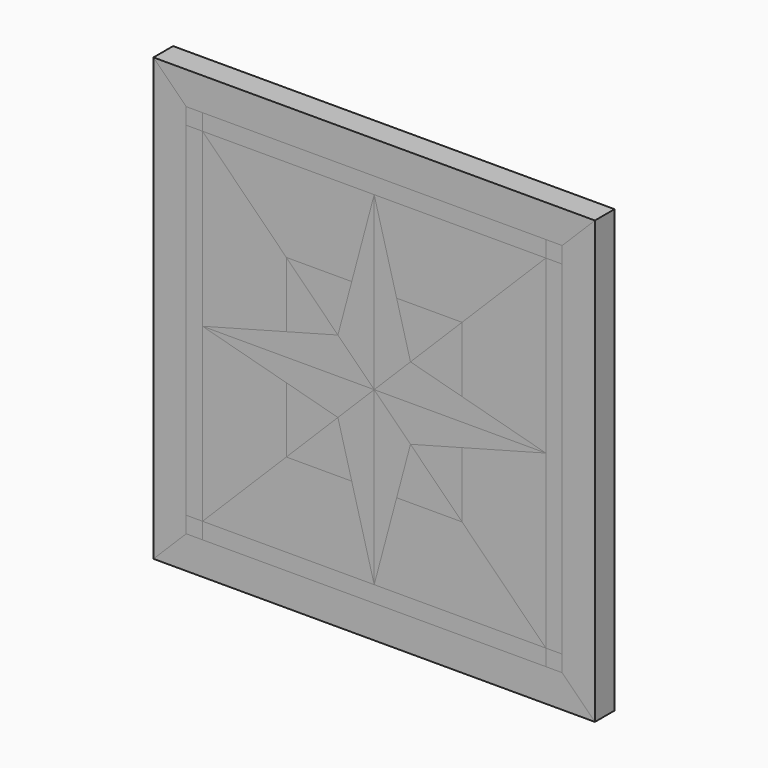
from build123d import *

# Parameters (mm, degrees)
F1_DEPTH  = 19.05
F2_DEPTH  = 19.05
F3_DEPTH  = 19.05
F4_DEPTH  = 19.05
F5_DEPTH  = 19.05
F6_DEPTH  = 19.05
F0_W      = 12.7
F0_H      = 12.7
F7_DEPTH  = 19.05
F8_DEPTH  = 19.05
F10_DEPTH = 19.05
F11_DEPTH = 19.05
F12_DEPTH = 19.05
F13_DEPTH = 19.05


with BuildPart() as f1:
    # F0 (on Front) → F1 (new body)
    with BuildSketch(Plane.XZ):
        Polygon((146.05, 146.05), (146.05, 133.35), (146.05, -133.35), (146.05, -146.05), (171.45, -171.45), (171.45, 171.45), align=None)
    extrude(amount=F1_DEPTH)


with BuildPart() as f1b:
    # F0 (on Front) → F1, piece 2 (new body)
    with BuildSketch(Plane.XZ):
        Polygon((-146.05, -133.35), (-146.05, 133.35), (-146.05, 146.05), (-171.45, 171.45), (-171.45, -171.45), (-146.05, -146.05), align=None)
    extrude(amount=F1_DEPTH)


with BuildPart() as f2:
    # F0 (on Front) → F2 (new body)
    with BuildSketch(Plane.XZ):
        Polygon((-146.05, 146.05), (-133.35, 146.05), (133.35, 146.05), (146.05, 146.05), (171.45, 171.45), (-171.45, 171.45), align=None)
    extrude(amount=F2_DEPTH)


with BuildPart() as f2b:
    # F0 (on Front) → F2, piece 2 (new body)
    with BuildSketch(Plane.XZ):
        Polygon((133.35, -146.05), (-133.35, -146.05), (-146.05, -146.05), (-171.45, -171.45), (171.45, -171.45), (146.05, -146.05), align=None)
    extrude(amount=F2_DEPTH)


with BuildPart() as f3:
    # F0 (on Front) → F3 (new body)
    with BuildSketch(Plane.XZ):
        Polygon((0, 0), (0, 133.35), (-17.4448676392, 68.2448676392), (-28.1801708018, 28.1801708018), align=None)
    extrude(amount=F3_DEPTH)


with BuildPart() as f3b:
    # F0 (on Front) → F3, piece 2 (new body)
    with BuildSketch(Plane.XZ):
        Polygon((28.1801708018, 28.1801708018), (0, 0), (133.35, 0), (68.2448676392, 17.4448676392), align=None)
    extrude(amount=F3_DEPTH)


with BuildPart() as f3c:
    # F0 (on Front) → F3, piece 3 (new body)
    with BuildSketch(Plane.XZ):
        Polygon((28.1801708018, -28.1801708018), (0, 0), (0, -133.35), (17.4448676392, -68.2448676392), align=None)
    extrude(amount=F3_DEPTH)


with BuildPart() as f3d:
    # F0 (on Front) → F3, piece 4 (new body)
    with BuildSketch(Plane.XZ):
        Polygon((-28.1801708018, -28.1801708018), (0, 0), (-133.35, 0), (-68.2448676392, -17.4448676392), align=None)
    extrude(amount=F3_DEPTH)


with BuildPart() as f4:
    # F0 (on Front) → F4 (new body)
    with BuildSketch(Plane.XZ):
        Polygon((68.2448676392, 68.2448676392), (17.4448676392, 68.2448676392), (28.1801708018, 28.1801708018), align=None)
    extrude(amount=F4_DEPTH)


with BuildPart() as f4b:
    # F0 (on Front) → F4, piece 2 (new body)
    with BuildSketch(Plane.XZ):
        Polygon((68.2448676392, -17.4448676392), (28.1801708018, -28.1801708018), (68.2448676392, -68.2448676392), align=None)
    extrude(amount=F4_DEPTH)


with BuildPart() as f4c:
    # F0 (on Front) → F4, piece 3 (new body)
    with BuildSketch(Plane.XZ):
        Polygon((-17.4448676392, -68.2448676392), (-28.1801708018, -28.1801708018), (-68.2448676392, -68.2448676392), align=None)
    extrude(amount=F4_DEPTH)


with BuildPart() as f4d:
    # F0 (on Front) → F4, piece 4 (new body)
    with BuildSketch(Plane.XZ):
        Polygon((-68.2448676392, 17.4448676392), (-28.1801708018, 28.1801708018), (-68.2448676392, 68.2448676392), align=None)
    extrude(amount=F4_DEPTH)


with BuildPart() as f5:
    # F0 (on Front) → F5 (new body)
    with BuildSketch(Plane.XZ):
        Polygon((-28.1801708018, 28.1801708018), (-17.4448676392, 68.2448676392), (-68.2448676392, 68.2448676392), align=None)
    extrude(amount=F5_DEPTH)


with BuildPart() as f5b:
    # F0 (on Front) → F5, piece 2 (new body)
    with BuildSketch(Plane.XZ):
        Polygon((68.2448676392, 68.2448676392), (28.1801708018, 28.1801708018), (68.2448676392, 17.4448676392), align=None)
    extrude(amount=F5_DEPTH)


with BuildPart() as f5c:
    # F0 (on Front) → F5, piece 3 (new body)
    with BuildSketch(Plane.XZ):
        Polygon((68.2448676392, -68.2448676392), (28.1801708018, -28.1801708018), (17.4448676392, -68.2448676392), align=None)
    extrude(amount=F5_DEPTH)


with BuildPart() as f5d:
    # F0 (on Front) → F5, piece 4 (new body)
    with BuildSketch(Plane.XZ):
        Polygon((-68.2448676392, -68.2448676392), (-28.1801708018, -28.1801708018), (-68.2448676392, -17.4448676392), align=None)
    extrude(amount=F5_DEPTH)


with BuildPart() as f6:
    # F0 (on Front) → F6 (new body)
    with BuildSketch(Plane.XZ):
        Polygon((17.4448676392, 68.2448676392), (0, 133.35), (0, 0), (28.1801708018, 28.1801708018), align=None)
    extrude(amount=F6_DEPTH)


with BuildPart() as f6b:
    # F0 (on Front) → F6, piece 2 (new body)
    with BuildSketch(Plane.XZ):
        Polygon((133.35, 0), (0, 0), (28.1801708018, -28.1801708018), (68.2448676392, -17.4448676392), align=None)
    extrude(amount=F6_DEPTH)


with BuildPart() as f6c:
    # F0 (on Front) → F6, piece 3 (new body)
    with BuildSketch(Plane.XZ):
        Polygon((0, -133.35), (0, 0), (-28.1801708018, -28.1801708018), (-17.4448676392, -68.2448676392), align=None)
    extrude(amount=F6_DEPTH)


with BuildPart() as f6d:
    # F0 (on Front) → F6, piece 4 (new body)
    with BuildSketch(Plane.XZ):
        Polygon((-133.35, 0), (0, 0), (-28.1801708018, 28.1801708018), (-68.2448676392, 17.4448676392), align=None)
    extrude(amount=F6_DEPTH)


with BuildPart() as f7:
    # F0 (on Front) → F7 (new body)
    with BuildSketch(Plane.XZ):
        with Locations((-139.7, 139.7)):
            Rectangle(F0_W, F0_H)
    extrude(amount=F7_DEPTH)


with BuildPart() as f7b:
    # F0 (on Front) → F7, piece 2 (new body)
    with BuildSketch(Plane.XZ):
        with Locations((139.7, 139.7)):
            Rectangle(F0_W, F0_H)
    extrude(amount=F7_DEPTH)


with BuildPart() as f7c:
    # F0 (on Front) → F7, piece 3 (new body)
    with BuildSketch(Plane.XZ):
        with Locations((139.7, -139.7)):
            Rectangle(F0_W, F0_H)
    extrude(amount=F7_DEPTH)


with BuildPart() as f7d:
    # F0 (on Front) → F7, piece 4 (new body)
    with BuildSketch(Plane.XZ):
        with Locations((-139.7, -139.7)):
            Rectangle(F0_W, F0_H)
    extrude(amount=F7_DEPTH)


with BuildPart() as f8:
    # F0 (on Front) → F8 (new body)
    with BuildSketch(Plane.XZ):
        Polygon((-133.35, 133.35), (0, 133.35), (133.35, 133.35), (133.35, 146.05), (-133.35, 146.05), align=None)
    extrude(amount=F8_DEPTH)


with BuildPart() as f8b:
    # F0 (on Front) → F8, piece 2 (new body)
    with BuildSketch(Plane.XZ):
        Polygon((146.05, 133.35), (133.35, 133.35), (133.35, 0), (133.35, -133.35), (146.05, -133.35), align=None)
    extrude(amount=F8_DEPTH)


with BuildPart() as f8c:
    # F0 (on Front) → F8, piece 3 (new body)
    with BuildSketch(Plane.XZ):
        Polygon((133.35, -133.35), (0, -133.35), (-133.35, -133.35), (-133.35, -146.05), (133.35, -146.05), align=None)
    extrude(amount=F8_DEPTH)


with BuildPart() as f8d:
    # F0 (on Front) → F8, piece 4 (new body)
    with BuildSketch(Plane.XZ):
        Polygon((-133.35, 0), (-133.35, 133.35), (-146.05, 133.35), (-146.05, -133.35), (-133.35, -133.35), align=None)
    extrude(amount=F8_DEPTH)


with BuildPart() as f10:
    # F9 (on Front) → F10 (new body)
    with BuildSketch(Plane.XZ):
        Polygon((0, 133.35), (-133.35, 133.35), (-68.2448676392, 68.2448676392), (-17.4448676392, 68.2448676392), align=None)
    extrude(amount=F10_DEPTH)


with BuildPart() as f10b:
    # F9 (on Front) → F10, piece 2 (new body)
    with BuildSketch(Plane.XZ):
        Polygon((133.35, 133.35), (0, 133.35), (17.4448676392, 68.2448676392), (68.2448676392, 68.2448676392), align=None)
    extrude(amount=F10_DEPTH)


with BuildPart() as f11:
    # F9 (on Front) → F11 (new body)
    with BuildSketch(Plane.XZ):
        Polygon((-68.2448676392, 68.2448676392), (-133.35, 133.35), (-133.35, 0), (-68.2448676392, 17.4448676392), align=None)
    extrude(amount=F11_DEPTH)


with BuildPart() as f11b:
    # F9 (on Front) → F11, piece 2 (new body)
    with BuildSketch(Plane.XZ):
        Polygon((-68.2448676392, -17.4448676392), (-133.35, 0), (-133.35, -133.35), (-68.2448676392, -68.2448676392), align=None)
    extrude(amount=F11_DEPTH)


with BuildPart() as f12:
    # F9 (on Front) → F12 (new body)
    with BuildSketch(Plane.XZ):
        Polygon((133.35, 0), (133.35, 133.35), (68.2448676392, 68.2448676392), (68.2448676392, 17.4448676392), align=None)
    extrude(amount=F12_DEPTH)


with BuildPart() as f12b:
    # F9 (on Front) → F12, piece 2 (new body)
    with BuildSketch(Plane.XZ):
        Polygon((133.35, -133.35), (133.35, 0), (68.2448676392, -17.4448676392), (68.2448676392, -68.2448676392), align=None)
    extrude(amount=F12_DEPTH)


with BuildPart() as f13:
    # F9 (on Front) → F13 (new body)
    with BuildSketch(Plane.XZ):
        Polygon((-68.2448676392, -68.2448676392), (-133.35, -133.35), (0, -133.35), (-17.4448676392, -68.2448676392), align=None)
    extrude(amount=F13_DEPTH)


with BuildPart() as f13b:
    # F9 (on Front) → F13, piece 2 (new body)
    with BuildSketch(Plane.XZ):
        Polygon((17.4448676392, -68.2448676392), (0, -133.35), (133.35, -133.35), (68.2448676392, -68.2448676392), align=None)
    extrude(amount=F13_DEPTH)


solid = Compound([f1.part, f1b.part, f2.part, f2b.part, f3.part, f3b.part, f3c.part, f3d.part, f4.part, f4b.part, f4c.part, f4d.part, f5.part, f5b.part, f5c.part, f5d.part, f6.part, f6b.part, f6c.part, f6d.part, f7.part, f7b.part, f7c.part, f7d.part, f8.part, f8b.part, f8c.part, f8d.part, f10.part, f10b.part, f11.part, f11b.part, f12.part, f12b.part, f13.part, f13b.part])
